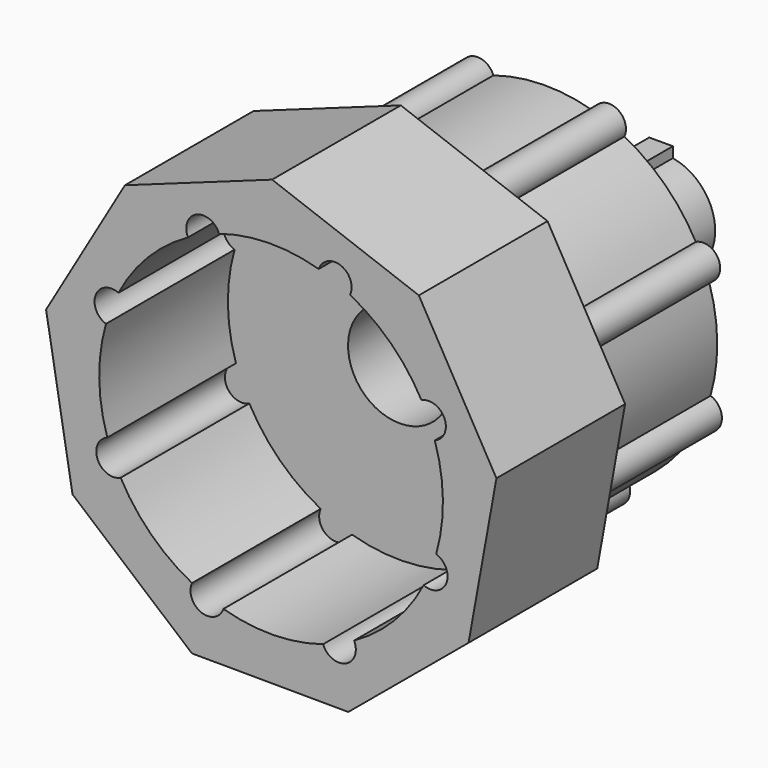
from build123d import *

# Parameters (mm, degrees)
F1_DEPTH = 80.772
F2_R     = 48.2897406473
F3_DEPTH = 91.44
F5_DEPTH = 218.694
F7_DEPTH = 74.676
F8_DEPTH = 15.494


with BuildPart() as f1:
    # F0 (on Front) → F1 (new body)
    with BuildSketch(Plane.XZ):
        Polygon((78.9029603352, -57.8708041925), (92.8972656379, 19.4217663724), (53.9348187704, 87.6266766027), (-19.7534183585, 114.8300909886), (-93.6879006429, 88.3032296066), (-133.2738621314, 20.4583057106), (-119.9885914948, -56.9592867961), (-60.0484145132, -107.724995979), (18.4999938429, -108.0849823133), align=None)
        with BuildLine():
            ThreePointArc((-96.9131855193, 39.6960148153), (-82.1078442057, 60.2141659197), (-61.988398234, 75.5569345729))
            ThreePointArc((-61.988398234, 75.5569345729), (-57.7127844254, 87.0956887984), (-46.398431086, 82.2573904373))
            ThreePointArc((-46.398431086, 82.2573904373), (-21.4209500621, 86.29695698), (3.654622375, 82.9193360566))
            ThreePointArc((3.654622375, 82.9193360566), (14.8370692522, 88.0551518981), (19.4163316426, 76.6335023466))
            ThreePointArc((19.4163316426, 76.6335023466), (39.9344827469, 61.828161033), (55.2772514002, 41.7087150613))
            ThreePointArc((55.2772514002, 41.7087150613), (66.8160056257, 37.4331012527), (61.9777072646, 26.1187479133))
            ThreePointArc((61.9777072646, 26.1187479133), (66.0172738073, 1.1412668894), (62.6396528839, -23.9343055477))
            ThreePointArc((62.6396528839, -23.9343055477), (67.7754687254, -35.1167524249), (56.3538191739, -39.6960148153))
            ThreePointArc((56.3538191739, -39.6960148153), (41.5484778603, -60.2141659197), (21.4290318886, -75.5569345729))
            ThreePointArc((21.4290318886, -75.5569345729), (17.15341808, -87.0956887984), (5.8390647406, -82.2573904373))
            ThreePointArc((5.8390647406, -82.2573904373), (-19.1384162833, -86.29695698), (-44.2139887204, -82.9193360566))
            ThreePointArc((-44.2139887204, -82.9193360566), (-55.3964355976, -88.0551518981), (-59.975697988, -76.6335023466))
            ThreePointArc((-59.975697988, -76.6335023466), (-80.4938490924, -61.828161033), (-95.8366177456, -41.7087150613))
            ThreePointArc((-95.8366177456, -41.7087150613), (-107.3753719711, -37.4331012527), (-102.53707361, -26.1187479133))
            ThreePointArc((-102.53707361, -26.1187479133), (-106.5766401527, -1.1412668894), (-103.1990192293, 23.9343055477))
            ThreePointArc((-103.1990192293, 23.9343055477), (-108.3348350708, 35.1167524249), (-96.9131855193, 39.6960148153))
        make_face(mode=Mode.SUBTRACT)
    extrude(amount=F1_DEPTH)


with BuildPart() as f3:
    # F2 (on face) → F3 (new body)
    with BuildSketch(Plane(origin=(0, 0, 0), x_dir=(-1, 0, 0), z_dir=(0, 1, 0))):
        with BuildLine():
            ThreePointArc((46.398431086, 82.2573904373), (21.4209500621, 86.29695698), (-3.654622375, 82.9193360566))
            ThreePointArc((-3.654622375, 82.9193360566), (-14.8370692522, 88.0551518981), (-19.4163316426, 76.6335023466))
            ThreePointArc((-19.4163316426, 76.6335023466), (-39.9344827469, 61.828161033), (-55.2772514002, 41.7087150613))
            ThreePointArc((-55.2772514002, 41.7087150613), (-66.8160056257, 37.4331012527), (-61.9777072646, 26.1187479133))
            ThreePointArc((-61.9777072646, 26.1187479133), (-66.0172738073, 1.1412668894), (-62.6396528839, -23.9343055477))
            ThreePointArc((-62.6396528839, -23.9343055477), (-67.7754687254, -35.1167524249), (-56.3538191739, -39.6960148153))
            ThreePointArc((-56.3538191739, -39.6960148153), (-41.5484778603, -60.2141659197), (-21.4290318886, -75.5569345729))
            ThreePointArc((-21.4290318886, -75.5569345729), (-17.15341808, -87.0956887984), (-5.8390647406, -82.2573904373))
            ThreePointArc((-5.8390647406, -82.2573904373), (19.1384162833, -86.29695698), (44.2139887204, -82.9193360566))
            ThreePointArc((44.2139887204, -82.9193360566), (55.3964355976, -88.0551518981), (59.975697988, -76.6335023466))
            ThreePointArc((59.975697988, -76.6335023466), (80.4938490924, -61.828161033), (95.8366177456, -41.7087150613))
            ThreePointArc((95.8366177456, -41.7087150613), (107.3753719711, -37.4331012527), (102.53707361, -26.1187479133))
            ThreePointArc((102.53707361, -26.1187479133), (106.5766401527, -1.1412668894), (103.1990192293, 23.9343055477))
            ThreePointArc((103.1990192293, 23.9343055477), (108.3348350708, 35.1167524249), (96.9131855193, 39.6960148153))
            ThreePointArc((96.9131855193, 39.6960148153), (82.1078442057, 60.2141659197), (61.988398234, 75.5569345729))
            ThreePointArc((61.988398234, 75.5569345729), (57.7127844254, 87.0956887984), (46.398431086, 82.2573904373))
        make_face()
        with Locations((20.2796831727, 0)):
            Circle(F2_R, mode=Mode.SUBTRACT)
        with Locations((20.2796831727, 0)):
            Circle(F2_R)
    extrude(amount=F3_DEPTH)

    # F4 (on face) → F5 (cut)
    with BuildSketch(Plane(origin=(0, 91.44, 0), x_dir=(-1, 0, 0), z_dir=(0, 1, 0))):
        with BuildLine():
            Line((16.0086341202, 30.472913757), (16.0086341202, 25.5923304851))
            ThreePointArc((16.0086341202, 25.5923304851), (18.5729035963, -25.890078083), (27.8734695166, 24.8101521283))
            Line((27.8734695166, 24.8101521283), (27.8734695166, 30.472913757))
            Line((27.8734695166, 30.472913757), (16.0086341202, 30.472913757))
        make_face()
    extrude(amount=-F5_DEPTH, mode=Mode.SUBTRACT)

    # F8 (add): a face of the model
    f8_faces = [f3.faces().sort_by_distance(p)[0] for p in [
        (-80.311361603, 91.44, 58.4645796519),
    ]]


with BuildPart() as f7:
    # F6 (on face) → F7 (new body)
    with BuildSketch(Plane(origin=(0, 91.44, 0), x_dir=(-1, 0, 0), z_dir=(0, 1, 0))):
        with BuildLine():
            Line((16.0086341202, 30.472913757), (16.0086341202, 25.1923010677))
            ThreePointArc((16.0086341202, 25.1923010677), (18.5714232378, -25.4946218071), (27.8734695166, 24.3973011224))
            Line((27.8734695166, 24.3973011224), (27.8734695166, 30.472913757))
            Line((27.8734695166, 30.472913757), (16.0086341202, 30.472913757))
        make_face()
    extrude(amount=F7_DEPTH)


with BuildPart() as f3_1:
    add(f3.part)

    add(f7.part)  # F8 merges F7
    extrude(f8_faces, amount=-F8_DEPTH)


solid = Compound([f1.part, f3_1.part])
